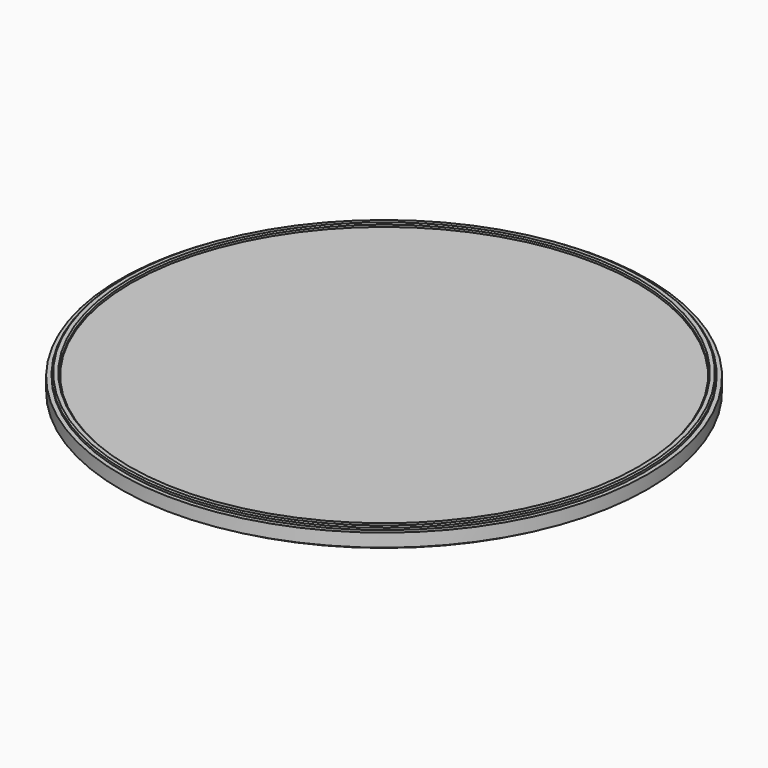
from build123d import *

# Parameters (mm, degrees)
F0_W    = 24.3568923324
F0_H    = 1.27
F0_W_2  = 0.635
F0_W_3  = 0.4081076676
F0_H_2  = 0.3256250771
F0_H_3  = 0.3093749229
F2_SIZE = 0.127
F3_SIZE = 0.127
F4_SIZE = 0.127
F5_SIZE = 0.127


with BuildPart() as f1:
    # F0 (on Front) → F1 (revolve)
    with BuildSketch(Plane.XZ):
        with Locations((12.1784461662, 5.207)):
            Rectangle(F0_W, F0_H)
        with Locations((24.6743923324, 5.207)):
            Rectangle(F0_W_2, F0_H)
        with Locations((25.1959461662, 5.207)):
            Rectangle(F0_W_3, F0_H)
        with Locations((24.6743923324, 6.0048125385)):
            Rectangle(F0_W_2, F0_H_2)
        with Locations((24.6743923324, 4.4173125385)):
            Rectangle(F0_W_2, F0_H_3)
    revolve(axis=Axis((0, 0, 5.207), (0, 0, 1)))

    # F2
    f2_edges = [f1.edges().sort_by_distance(p)[0] for p in [
        (-24.991892, 0, 6.167625),
    ]]
    chamfer(f2_edges, length=F2_SIZE)

    # F3
    f3_edges = [f1.edges().sort_by_distance(p)[0] for p in [
        (-24.356892, 0, 6.167625),
    ]]
    chamfer(f3_edges, length=F3_SIZE)

    # F4
    f4_edges = [f1.edges().sort_by_distance(p)[0] for p in [
        (-24.991892, 0, 4.262625),
    ]]
    chamfer(f4_edges, length=F4_SIZE)

    # F5
    f5_edges = [f1.edges().sort_by_distance(p)[0] for p in [
        (-24.356892, 0, 4.262625),
    ]]
    chamfer(f5_edges, length=F5_SIZE)


solid = f1.part
